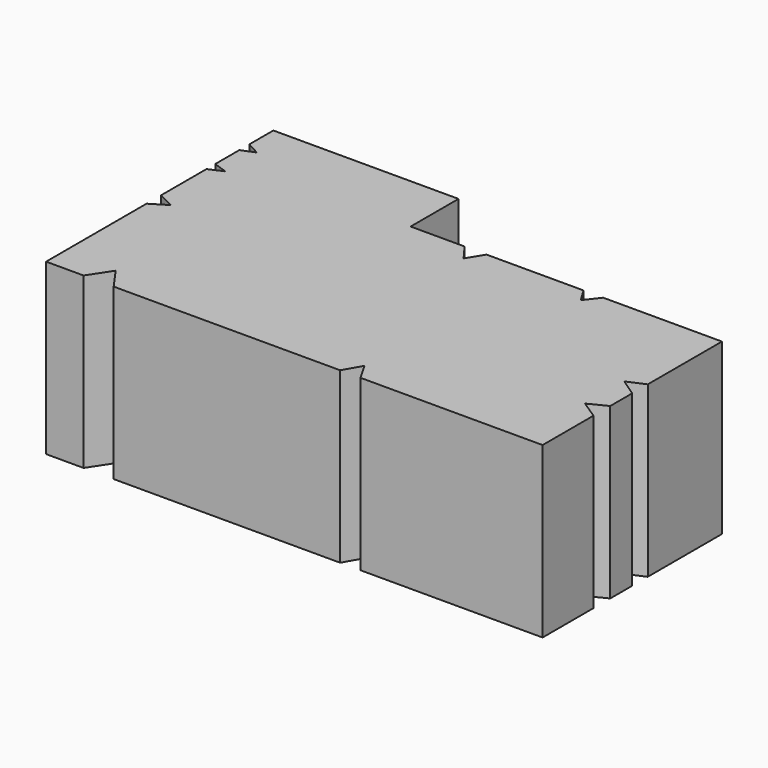
from build123d import *

# Parameters (mm, degrees)
F1_DEPTH = 54.102


with BuildPart() as f1:
    # F0 (on Top) → F1 (new body)
    with BuildSketch(Plane.XY):
        Polygon((27.706871, 44.570383), (10.475794, 44.570383), (10.475794, 63.694596), (-48.650604, 63.694596), (-48.650604, 54.132489), (-44.426359, 51.830906), (-48.650604, 50.111197), (-48.650604, 44.570383), (-48.650604, 40.514555), (-44.22088, 38.975522), (-48.650604, 36.992617), (-48.650604, 18.805578), (-43.44416, 16.265633), (-48.650604, 13.079133), (-48.650604, -27.007008), (-36.684245, -27.007008), (-32.062348, -19.97022), (-27.061483, -27.007008), (45.228332, -27.007008), (48.458226, -21.348011), (51.748864, -27.007008), (109.872073, -27.007008), (109.872073, -6.694648), (104.128033, -2.902293), (109.872073, 0), (109.872073, 8.781687), (104.303814, 12.534216), (109.872073, 14.971278), (109.872073, 44.570383), (71.969695, 44.570383), (68.432719, 40.012565), (65.677479, 44.570383), (34.715153, 44.570383), (31.536203, 39.398182), align=None)
    extrude(amount=F1_DEPTH)


solid = f1.part
